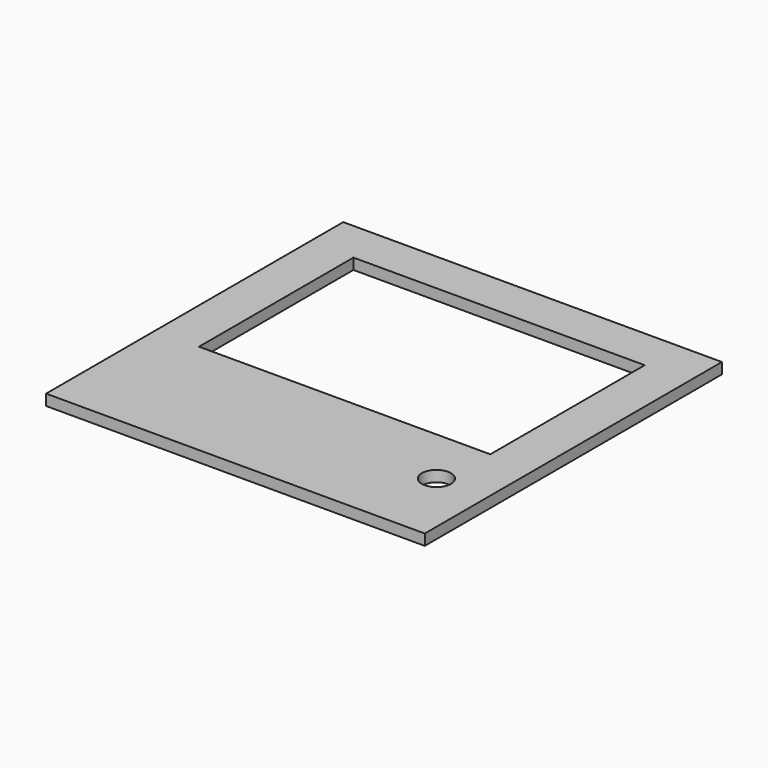
from build123d import *

# Parameters (mm, degrees)
F1_DEPTH = 3
F4_DEPTH = 25


with BuildPart() as f1:
    # F0 (on Top) → F1 (new body)
    with BuildSketch(Plane.XY):
        Polygon((40, 0), (40, -26.5), (0, -26.5), (0, -64), (52, -64), (52, 0), align=None)
        Polygon((40, 26.5), (40, 0), (52, 0), (52, 38), (0, 38), (0, 26.5), align=None)
    extrude(amount=F1_DEPTH)

    # F2: F1 across plane


with BuildPart() as f1_1:
    add(f1.part)
    add(f1.part.mirror(Plane.YZ))


with BuildPart() as f4:
    # F3 (on Top) → F4 (new body)
    with BuildSketch(Plane.XY):
        with BuildLine():
            ThreePointArc((40, -39.035898), (34.535898, -44.5), (42, -42.5))
            ThreePointArc((42, -42.5), (41.464102, -40.5), (40, -39.035898))
        make_face()
    extrude(amount=F4_DEPTH)


with BuildPart() as f1_2:
    add(f1_1.part)

    # F5: cut F4
    add(f4.part, mode=Mode.SUBTRACT)


solid = f1_2.part
